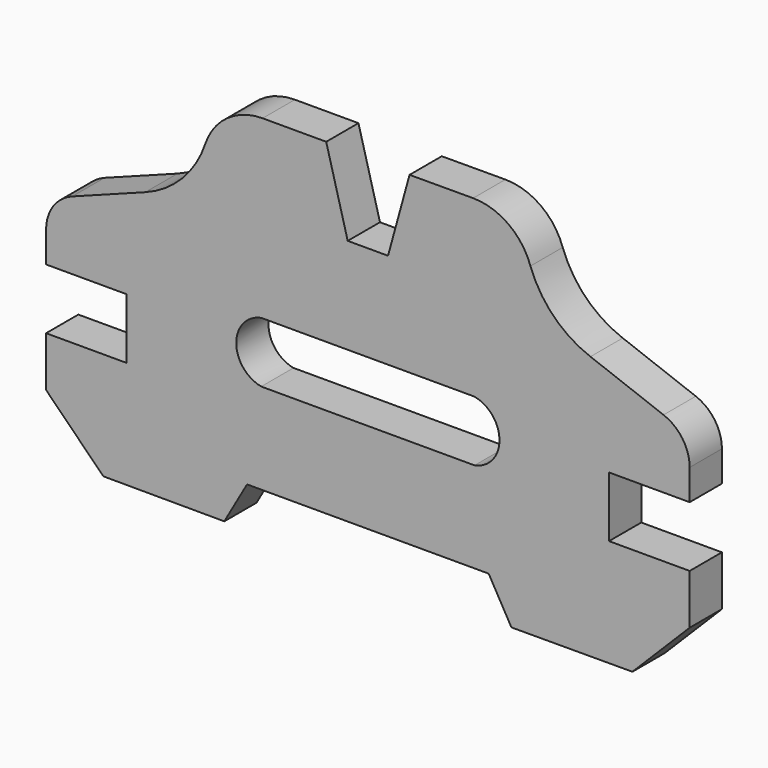
from build123d import *

# Parameters (mm, degrees)
F1_DEPTH = 6.35
F2_SIZE  = 18.034


with BuildPart() as f1:
    # F0 (on Front) → F1 (new body, symmetric)
    with BuildSketch(Plane.XZ):
        with BuildLine():
            Line((6.35, 26.732494), (-6.35, 26.732494))
            Line((-6.35, 26.732494), (-13.122164, 52.006553))
            Line((-13.122164, 52.006553), (-33.152208, 52.006553))
            ThreePointArc((-33.152208, 52.006553), (-44.261044, 48.43222), (-51.201199, 39.050517))
            ThreePointArc((-51.201199, 39.050517), (-58.451758, 27.143497), (-70.104, 19.490197))
            Line((-70.104, 19.490197), (-93.117541, 10.833011))
            ThreePointArc((-93.117541, 10.833011), (-99.088188, 6.174706), (-101.346, -1.05376))
            Line((-101.346, -1.05376), (-101.346, -10.70576))
            Line((-101.346, -10.70576), (-75.946, -10.70576))
            Line((-75.946, -10.70576), (-75.946, -29.75576))
            Line((-75.946, -29.75576), (-101.346, -29.75576))
            Line((-101.346, -29.75576), (-101.346, -63.53776))
            Line((-101.346, -63.53776), (-45.217, -63.672118))
            Line((-45.217, -63.672118), (-38.048949, -51.09176))
            Line((-38.048949, -51.09176), (38.048949, -51.09176))
            Line((38.048949, -51.09176), (45.212, -63.672118))
            Line((45.212, -63.672118), (101.346, -63.53776))
            Line((101.346, -63.53776), (101.346, -29.75576))
            Line((101.346, -29.75576), (75.946, -29.75576))
            Line((75.946, -29.75576), (75.946, -10.70576))
            Line((75.946, -10.70576), (101.346, -10.70576))
            Line((101.346, -10.70576), (101.346, -1.05376))
            ThreePointArc((101.346, -1.05376), (99.088188, 6.174706), (93.117541, 10.833011))
            Line((93.117541, 10.833011), (70.104, 19.490197))
            ThreePointArc((70.104, 19.490197), (58.554232, 26.885651), (51.201085, 38.462401))
            ThreePointArc((51.201085, 38.462401), (44.260929, 47.844103), (33.152093, 51.418436))
            Line((33.152093, 51.418436), (13.122164, 51.370494))
            Line((13.122164, 51.370494), (6.35, 26.732494))
        make_face()
        with BuildLine():
            ThreePointArc((-33.596557, -22.51676), (-41.45234, -12.99176), (-33.596557, -3.46676))
            Line((-33.596557, -3.46676), (33.596557, -3.46676))
            ThreePointArc((33.596557, -3.46676), (41.45234, -12.99176), (33.596557, -22.51676))
            Line((33.596557, -22.51676), (-33.596557, -22.51676))
        make_face(mode=Mode.SUBTRACT)
    extrude(amount=F1_DEPTH, both=True)

    # F2
    f2_edges = [f1.edges().sort_by_distance(p)[0] for p in [
        (-101.346, 0, -63.53776),
        (101.346, 0, -63.53776),
    ]]
    chamfer(f2_edges, length=F2_SIZE)


solid = f1.part
